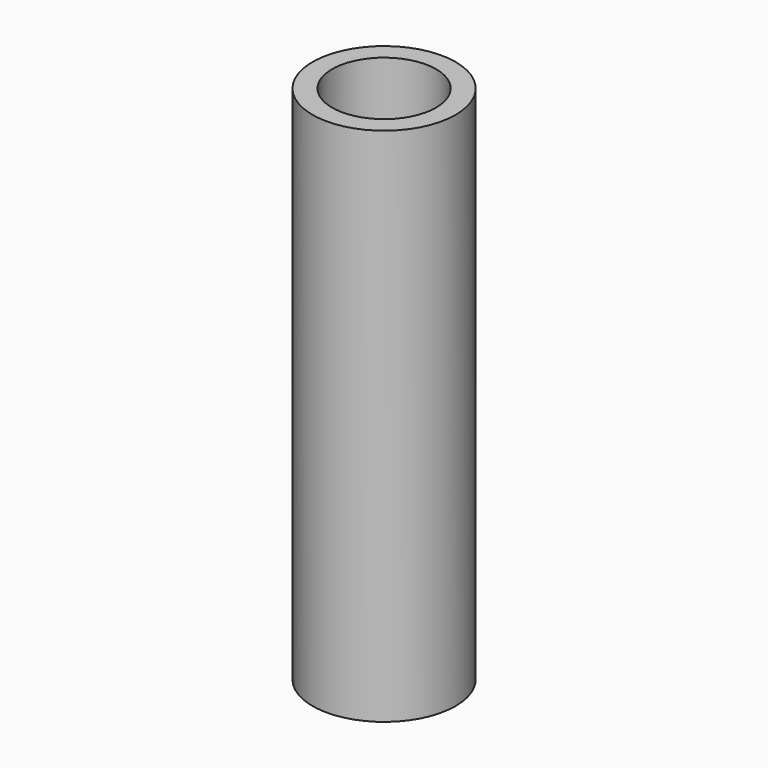
from build123d import *

# Parameters (mm, degrees)
SKETCH_R   = 2.75
SKETCH_R_2 = 2
PAD_DEPTH  = 20


with BuildPart() as part:
    # Sketch → Pad (new body)
    with BuildSketch(Plane.XY):
        Circle(SKETCH_R)
        Circle(SKETCH_R_2, mode=Mode.SUBTRACT)
    extrude(amount=PAD_DEPTH)


solid = part.part
